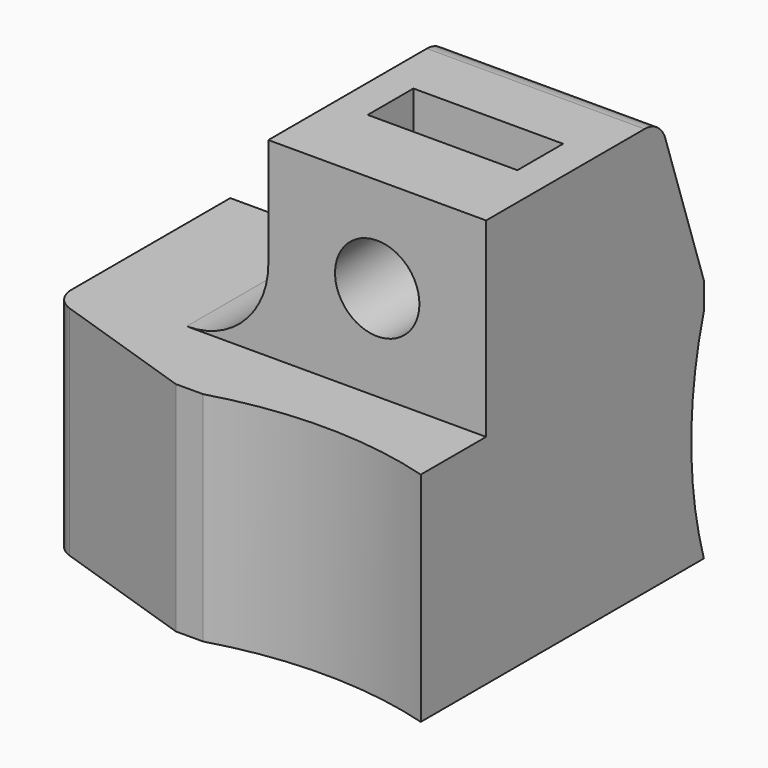
from build123d import *

# Parameters (mm, degrees)
EXTRUDE002_DEPTH                          = 2.1
EXTRUDE002_ONTO_SKETCH006_ROLL_ANGLE      = 90
EXTRUDE001_DEPTH                          = 2.1
EXTRUDE001_ONTO_SKETCH005_ROLL_ANGLE      = 90
EXTRUDE001_ONTO_SKETCH005_PLACEMENT_ANGLE = 180
EXTRUDE_DEPTH                             = 8
SKETCH001_W                               = 8
SKETCH001_H                               = 10
PAD_DEPTH                                 = 7
POCKET_DEPTH                              = 8.001
SKETCH003_R                               = 1.55
POCKET001_DEPTH                           = 7
SKETCH004_R                               = 1.55
POCKET002_DEPTH                           = 7
CHAMFER_SIZE2                             = 2
CHAMFER_SIZE                              = 6
CHAMFER001_SIZE2                          = 6
CHAMFER001_SIZE                           = 2
FILLET_1_R                                = 3
FILLET_2_R                                = 1


with BuildPart() as extrude002:
    # Sketch006 as drawn → Extrude002 (new)
    with BuildSketch(Plane.XY):
        Polygon((4, 8.324574), (1.25, 9.912287), (1.25, 15), (6.75, 15), (6.75, 9.912287), align=None)
    extrude(amount=-EXTRUDE002_DEPTH)


with BuildPart() as extrude002_1:
    # Extrude002 onto Sketch006 roll: moved
    add(extrude002.part.rotate(Axis((0, 0, 0), (1, 0, 0)), EXTRUDE002_ONTO_SKETCH006_ROLL_ANGLE))


with BuildPart() as extrude002_2:
    # Extrude002 onto Sketch006 placement: moved
    add(extrude002_1.part.moved(Location((0, -7, 0))))


with BuildPart() as extrude002_3:
    # Extrude002 placement: moved
    add(extrude002_2.part.moved(Location((0, 3, 0))))


with BuildPart() as extrude001:
    # Sketch005 as drawn → Extrude001 (new)
    with BuildSketch(Plane.XY):
        Polygon((0.324574, 4), (1.912287, 6.75), (7, 6.75), (7, 1.25), (1.912287, 1.25), align=None)
    extrude(amount=-EXTRUDE001_DEPTH)


with BuildPart() as extrude001_1:
    # Extrude001 onto Sketch005 roll: moved
    add(extrude001.part.rotate(Axis((0, 0, 0), (1, 0, 0)), EXTRUDE001_ONTO_SKETCH005_ROLL_ANGLE))


with BuildPart() as extrude001_2:
    # Extrude001 onto Sketch005 placement: moved
    add(extrude001_1.part.rotate(Axis((0, 0, 0), (0, 0, 1)), EXTRUDE001_ONTO_SKETCH005_PLACEMENT_ANGLE))


with BuildPart() as extrude001_3:
    # Extrude001 placement: moved
    add(extrude001_2.part.moved(Location((0, -3, 0))))


with BuildPart() as fillet_body:
    # Sketch → Extrude (new body)
    with BuildSketch(Plane.XY):
        with BuildLine():
            Line((0, 0), (0, 3))
            Line((0, 3), (8, 3))
            Line((8, 3), (8, -10))
            ThreePointArc((8, -10), (4, -9.422859), (0, -10))
            Line((0, -10), (-7, -10))
            Line((-7, -10), (-7, 0))
            Line((-7, 0), (0, 0))
        make_face()
    extrude(amount=EXTRUDE_DEPTH)

    # Sketch001 → Pad (new body)
    with BuildSketch(Plane.XY.offset(8)):
        with Locations((4, -2)):
            Rectangle(SKETCH001_W, SKETCH001_H)
    extrude(amount=PAD_DEPTH)

    # Sketch002 → Pocket (cut, through all)
    with BuildSketch(Plane(origin=(0, 0, 0), x_dir=(0, -1, 0), z_dir=(-1, 0, 0))):
        with BuildLine():
            Line((-3, 0), (-3, 8))
            ThreePointArc((-3, 0), (-2.422859, 4), (-3, 8))
        make_face()
    extrude(amount=-POCKET_DEPTH, mode=Mode.SUBTRACT)

    # Sketch003 → Pocket001 (cut)
    with BuildSketch(Plane(origin=(0, 0, 0), x_dir=(-1, 0, 0), z_dir=(0, 1, 0))):
        with Locations((3.5, 4)):
            Circle(SKETCH003_R)
    extrude(amount=-POCKET001_DEPTH, mode=Mode.SUBTRACT)

    # Sketch004 → Pocket002 (cut)
    with BuildSketch(Plane.XZ.offset(7)):
        with Locations((4, 11.5)):
            Circle(SKETCH004_R)
    extrude(amount=-POCKET002_DEPTH, mode=Mode.SUBTRACT)

    # Cut: cut Extrude001
    add(extrude001_3.part, mode=Mode.SUBTRACT)

    # Cut001: cut Extrude002
    add(extrude002_3.part, mode=Mode.SUBTRACT)

    # Chamfer
    chamfer_edges = [fillet_body.edges().sort_by_distance(p)[0] for p in [
        (4, 3, 15),
    ]]
    chamfer_side = fillet_body.faces().sort_by_distance((4, 3, 11.5))[0]
    chamfer(chamfer_edges, length=CHAMFER_SIZE, length2=CHAMFER_SIZE2, reference=chamfer_side)

    # Chamfer001
    chamfer001_edges = [fillet_body.edges().sort_by_distance(p)[0] for p in [
        (-7, -10, 4),
    ]]
    chamfer001_side = fillet_body.faces().sort_by_distance((-7, -5.160299, 4))[0]
    chamfer(chamfer001_edges, length=CHAMFER001_SIZE, length2=CHAMFER001_SIZE2, reference=chamfer001_side)

    # Fillet 1
    fillet_1_edges = [fillet_body.edges().sort_by_distance(p)[0] for p in [
        (0, -3.5, 8),
    ]]
    fillet(fillet_1_edges, radius=FILLET_1_R)

    # Fillet 2
    fillet_2_edges = [fillet_body.edges().sort_by_distance(p)[0] for p in [
        (-7, -8, 4),
        (4, 1, 15),
    ]]
    fillet(fillet_2_edges, radius=FILLET_2_R)


solid = fillet_body.part
